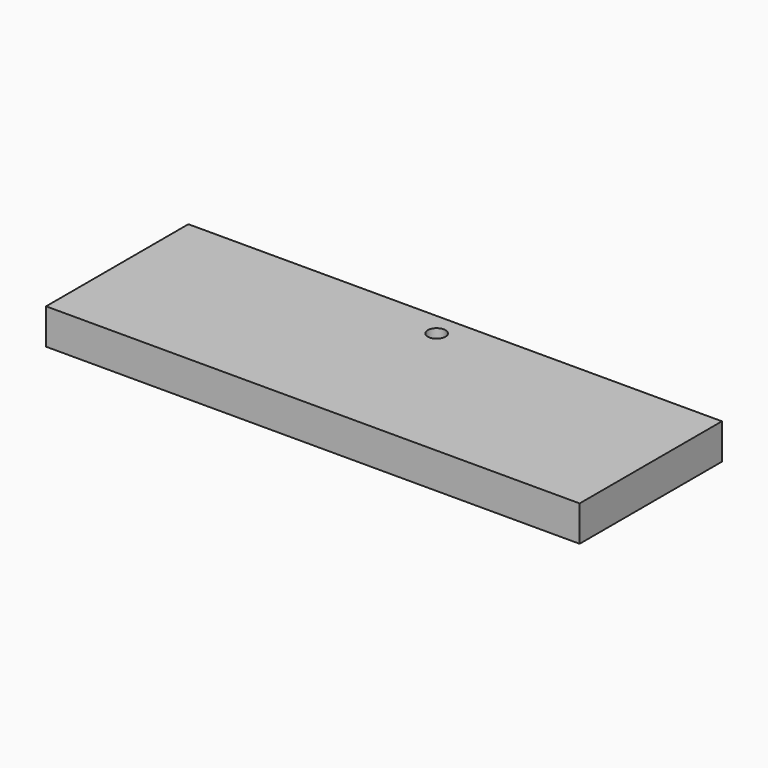
from build123d import *

# Parameters (mm, degrees)
F0_W     = 1524
F0_H     = 508
F1_DEPTH = 50.8
F2_R     = 25.4
F3_DEPTH = 130.33518


with BuildPart() as f1:
    # F0 (on Top) → F1 (new body, symmetric)
    with BuildSketch(Plane.XY):
        Rectangle(F0_W, F0_H)
    extrude(amount=F1_DEPTH, both=True)

    # F2 (on face) → F3 (cut)
    with BuildSketch(Plane.XY.offset(50.8)):
        with Locations((0, 187.96)):
            Circle(F2_R)
    extrude(amount=-F3_DEPTH, mode=Mode.SUBTRACT)


solid = f1.part
